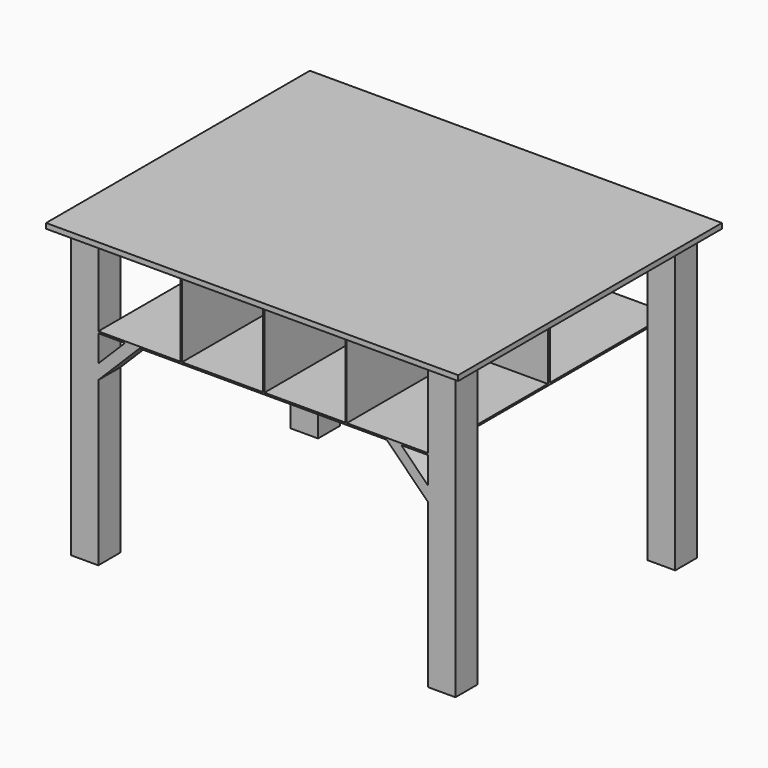
from build123d import *

# Parameters (mm, degrees)
F0_W      = 1524
F0_H      = 1219.2
F1_DEPTH  = 19.05
F2_W      = 101.6
F2_H      = 101.6
F3_DEPTH  = 1066.8
F4_W      = 101.6
F4_H      = 6.35
F5_DEPTH  = 1219.2
F6_W      = 1219.2
F6_H      = 6.35
F7_DEPTH  = 1016
F8_W      = 1219.2
F8_H      = 9.5504
F9_DEPTH  = 311.658
F10_W     = 4.7752
F10_H     = 304.8
F11_DEPTH = 554.482
F12_DEPTH = 563.118
F14_DEPTH = 101.6
F15_DEPTH = 101.6


with BuildPart() as f1:
    # F0 (on Top) → F1 (new body)
    with BuildSketch(Plane.XY):
        with Locations((-82.5799548888, -2.5221072137)):
            Rectangle(F0_W, F0_H)
    extrude(amount=F1_DEPTH)

    # F2 (on face) → F3 (join)
    with BuildSketch(Plane.XY):
        with Locations((-742.9799548888, -510.5221072137)):
            Rectangle(F2_W, F2_H)
        with Locations((577.8200451112, -510.5221072137)):
            Rectangle(F2_W, F2_H)
        with Locations((577.8200451112, 505.4778927863)):
            Rectangle(F2_W, F2_H)
        with Locations((-742.9799548888, 505.4778927863)):
            Rectangle(F2_W, F2_H)
    extrude(amount=-F3_DEPTH)

    # F4 (on face) → F5 (join, through all)
    with BuildSketch(Plane.YZ.offset(-692.1799548888)):
        with Locations((-510.5221072137, -307.975)):
            Rectangle(F4_W, F4_H)
    extrude(amount=F5_DEPTH)

    # F6 (on face) → F7 (join)
    with BuildSketch(Plane(origin=(0, -459.7221072137, 0), x_dir=(-1, 0, 0), z_dir=(0, 1, 0))):
        with Locations((82.5799548888, -307.975)):
            Rectangle(F6_W, F6_H)
    extrude(amount=F7_DEPTH)

    # F8 (on face) → F9 (join)
    with BuildSketch(Plane(origin=(0, 0, -311.15), x_dir=(1, 0, 0), z_dir=(0, 0, -1))):
        with Locations((-82.5799548888, 2.5221072137)):
            Rectangle(F8_W, F8_H)
    extrude(amount=-F9_DEPTH)

    # F10 (on face) → F11 (join)
    with BuildSketch(Plane.XZ.offset(7.2973072137)):
        with Locations((-384.9923548888, -152.4)):
            Rectangle(F10_W, F10_H)
        with Locations((-80.1923548888, -152.4)):
            Rectangle(F10_W, F10_H)
        with Locations((224.6076451112, -152.4)):
            Rectangle(F10_W, F10_H)
    extrude(amount=F11_DEPTH)

    # F10 (on face) → F12 (join)
    with BuildSketch(Plane.XZ.offset(7.2973072137)):
        with Locations((-384.9923548888, -152.4)):
            Rectangle(F10_W, F10_H)
        with Locations((-80.1923548888, -152.4)):
            Rectangle(F10_W, F10_H)
        with Locations((224.6076451112, -152.4)):
            Rectangle(F10_W, F10_H)
    extrude(amount=-F12_DEPTH)

    # F13 (on face) → F14 (join)
    with BuildSketch(Plane.XZ.offset(561.3221072137)):
        Polygon((-692.1799548888, -409.6684632736), (-692.1799548888, -463.55), (-539.7799548888, -311.15), (-593.6614916152, -311.15), align=None)
    extrude(amount=-F14_DEPTH)

    # F13 (on face) → F15 (join)
    with BuildSketch(Plane.XZ.offset(561.3221072137)):
        Polygon((428.2372277794, -311.15), (374.355691053, -311.15), (527.0200451112, -463.8143540582), (527.0200451112, -409.9328173318), align=None)
    extrude(amount=-F15_DEPTH)


solid = f1.part
